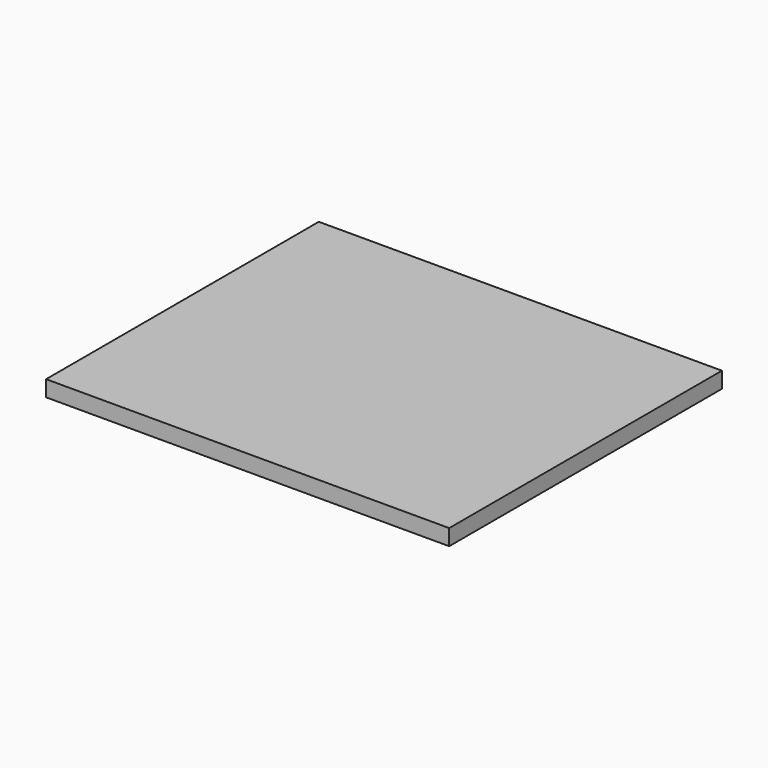
from build123d import *

# Parameters (mm, degrees)
F0_W     = 714.375
F0_H     = 603.123
F1_DEPTH = 3.175
F2_W     = 720.725
F2_H     = 609.473
F2_W_2   = 714.375
F2_H_2   = 603.123
F3_DEPTH = 28.575


with BuildPart() as f1:
    # F0 (on Top) → F1 (new body)
    with BuildSketch(Plane.XY):
        Rectangle(F0_W, F0_H)
    extrude(amount=F1_DEPTH)

    # F2 (on face) → F3 (join)
    with BuildSketch(Plane.XY.offset(3.175)):
        Rectangle(F2_W, F2_H)
        Rectangle(F2_W_2, F2_H_2, mode=Mode.SUBTRACT)
    extrude(amount=-F3_DEPTH)


solid = f1.part
